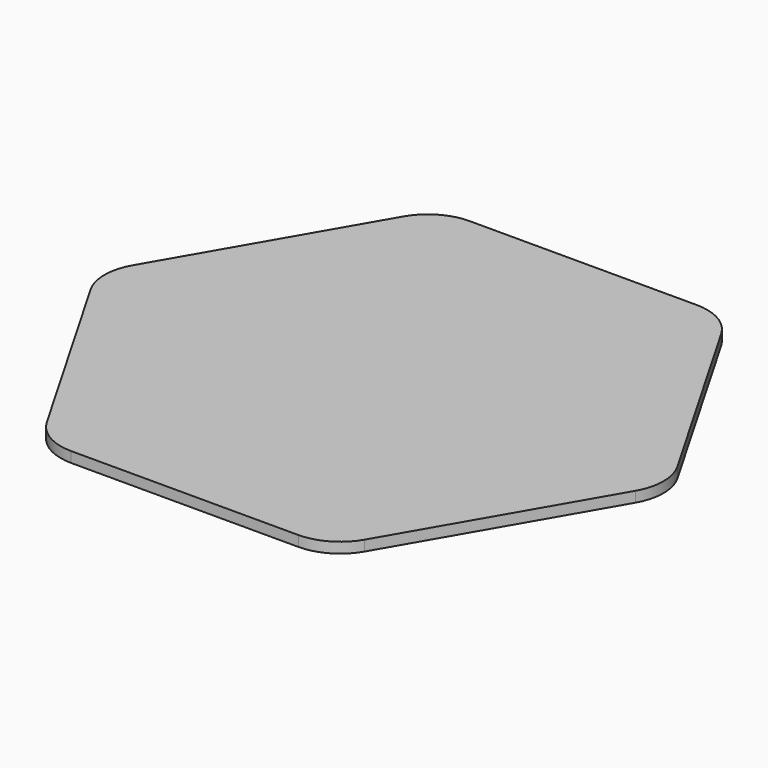
from build123d import *

# Parameters (mm, degrees)
F1_DEPTH = 2


with BuildPart() as f1:
    # F0 (on Top) → F1 (new body)
    with BuildSketch(Plane.XY):
        with BuildLine():
            Line((30.310889, -42.5), (51.961524, -5))
            ThreePointArc((51.961524, -5), (53.30127, 0), (51.961524, 5))
            Line((51.961524, 5), (30.310889, 42.5))
            ThreePointArc((30.310889, 42.5), (26.650635, 46.160254), (21.650635, 47.5))
            Line((21.650635, 47.5), (-21.650635, 47.5))
            ThreePointArc((-21.650635, 47.5), (-26.650635, 46.160254), (-30.310889, 42.5))
            Line((-30.310889, 42.5), (-51.961524, 5))
            ThreePointArc((-51.961524, 5), (-53.30127, 0), (-51.961524, -5))
            Line((-51.961524, -5), (-30.310889, -42.5))
            ThreePointArc((-30.310889, -42.5), (-26.650635, -46.160254), (-21.650635, -47.5))
            Line((-21.650635, -47.5), (21.650635, -47.5))
            ThreePointArc((21.650635, -47.5), (26.650635, -46.160254), (30.310889, -42.5))
        make_face()
    extrude(amount=F1_DEPTH)


solid = f1.part
